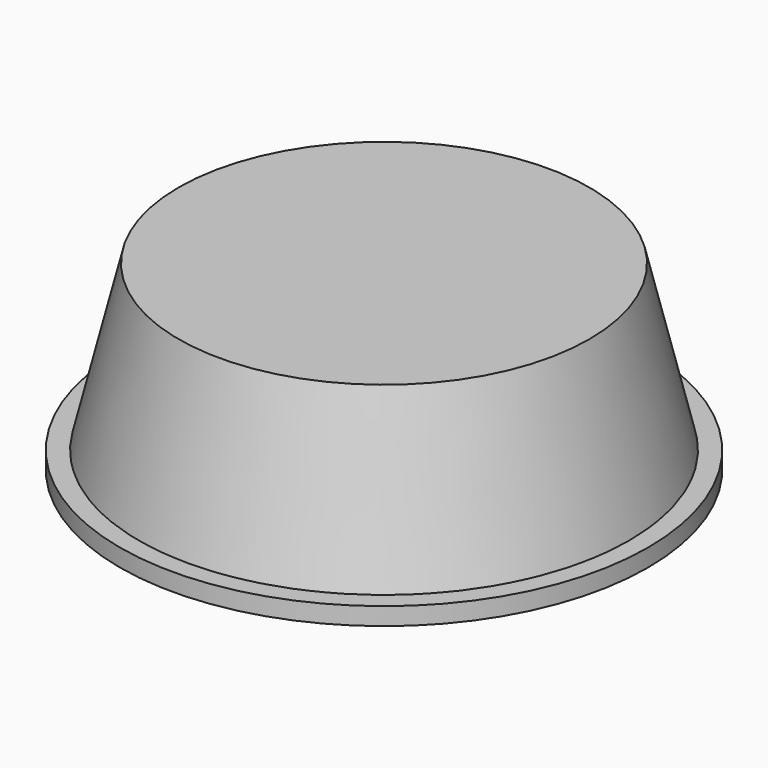
from build123d import *

# Parameters (mm, degrees)
F0_R      = 45
F0_R_2    = 42.5
F1_DEPTH  = 3
F3_R      = 35
F4_DEPTH  = 3
F4_FACE_R = 35


with BuildPart() as f1:
    # F0 (on Top) → F1 (new body)
    with BuildSketch(Plane.XY):
        Circle(F0_R)
        Circle(F0_R_2, mode=Mode.SUBTRACT)
        Circle(F0_R_2)
    extrude(amount=F1_DEPTH)


with BuildPart() as f4:
    # F3 (on offset) → F4 (new body)
    with BuildSketch(Plane.XY.offset(28)):
        Circle(F3_R)
    extrude(amount=F4_DEPTH)


with BuildPart() as f5:
    # F4_face (on face) → F5 section 0
    with BuildSketch(Plane.XY.offset(31)):
        Circle(F4_FACE_R)
    # F0 (on Top) → F5 section 1
    with BuildSketch(Plane.XY):
        Circle(F0_R_2)
    loft()


solid = Compound([f1.part, f4.part, f5.part])
